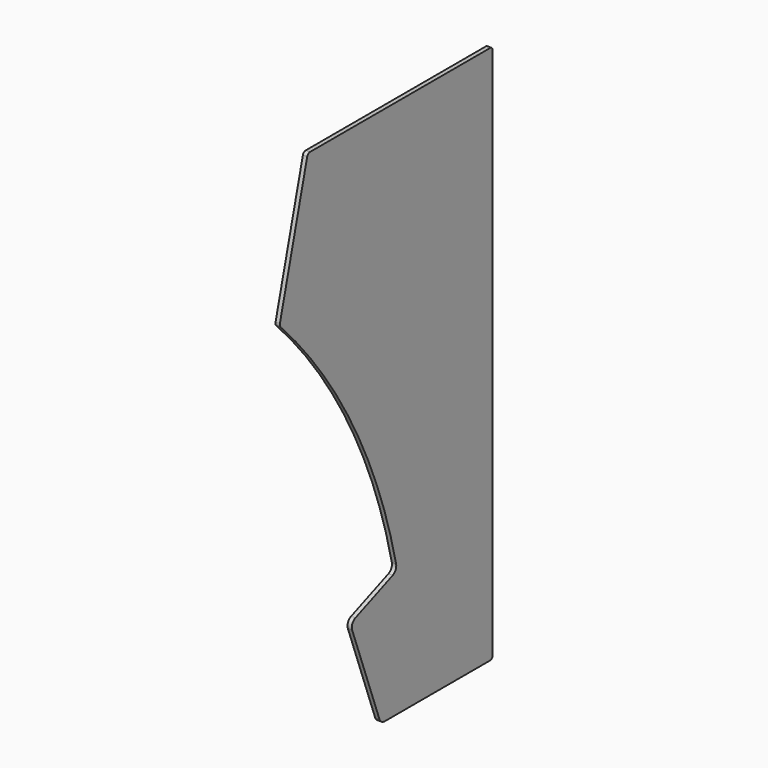
from build123d import *

# Parameters (mm, degrees)
F1_DEPTH = 6
F2_R     = 10
F3_R     = 10
F4_R     = 10
F5_R     = 4
F6_R     = 4
F7_R     = 5.08
F8_R     = 5.08


with BuildPart() as f1:
    # F0 (on Right) → F1 (new body)
    with BuildSketch(Plane.YZ):
        with BuildLine():
            Line((206.182857, -370.988358), (206.182857, 379.011642))
            Line((206.182857, 379.011642), (-115.060672, 379.011642))
            Line((-115.060672, 379.011642), (-164.283467, 187.301795))
            ThreePointArc((-164.283467, 187.301795), (-34.827874, 10.767053), (40.379739, -194.82254))
            Line((40.379739, -194.82254), (-41.226477, -227.205956))
            Line((-41.226477, -227.205956), (11.882335, -370.988358))
            Line((11.882335, -370.988358), (206.182857, -370.988358))
        make_face()
    extrude(amount=F1_DEPTH)

    # F2
    f2_edges = [f1.edges().sort_by_distance(p)[0] for p in [
        (3, -41.226477, -227.205956),
    ]]
    fillet(f2_edges, radius=F2_R)

    # F3
    f3_edges = [f1.edges().sort_by_distance(p)[0] for p in [
        (3, 40.379739, -194.82254),
    ]]
    fillet(f3_edges, radius=F3_R)

    # F4
    f4_edges = [f1.edges().sort_by_distance(p)[0] for p in [
        (3, 11.882335, -370.988358),
    ]]
    fillet(f4_edges, radius=F4_R)

    # F5
    f5_edges = [f1.edges().sort_by_distance(p)[0] for p in [
        (3, 206.182857, -370.988358),
    ]]
    fillet(f5_edges, radius=F5_R)

    # F6
    f6_edges = [f1.edges().sort_by_distance(p)[0] for p in [
        (3, 206.182857, 379.011642),
    ]]
    fillet(f6_edges, radius=F6_R)

    # F7
    f7_edges = [f1.edges().sort_by_distance(p)[0] for p in [
        (3, -164.283467, 187.301795),
    ]]
    fillet(f7_edges, radius=F7_R)

    # F8
    f8_edges = [f1.edges().sort_by_distance(p)[0] for p in [
        (3, -115.060672, 379.011642),
    ]]
    fillet(f8_edges, radius=F8_R)


solid = f1.part
